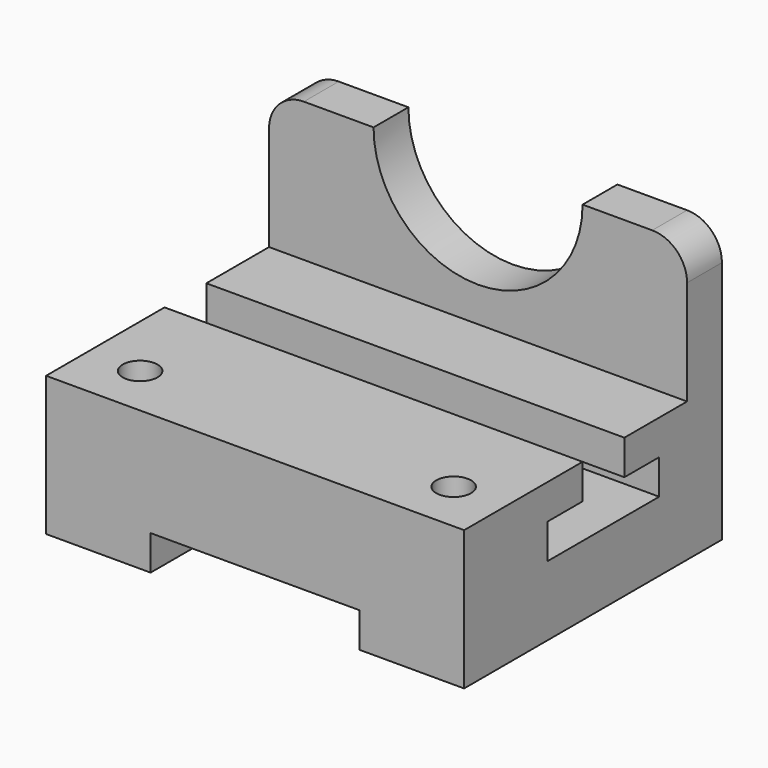
from build123d import *

# Parameters (mm, degrees)
F1_DEPTH = 101.6
F2_W     = 19.05
F2_H     = 12.7
F3_DEPTH = 152.4
F4_R     = 6.35
F5_DEPTH = 50.8
F6_W     = 152.4
F6_H     = 15.875
F7_DEPTH = 50.8
F9_DEPTH = 15.875
F10_R    = 12.7


with BuildPart() as f1:
    # F0 (on Front) → F1 (new body)
    with BuildSketch(Plane.XZ):
        Polygon((76.2, 25.4), (-76.2, 25.4), (-76.2, -25.4), (-38.1, -25.4), (-38.1, -12.7), (38.1, -12.7), (38.1, -25.4), (76.2, -25.4), align=None)
    extrude(amount=-F1_DEPTH)

    # F2 (on face) → F3 (cut)
    with BuildSketch(Plane.YZ.offset(76.2)):
        Polygon((53.975, 12.7), (38.1, 12.7), (38.1, 0), (88.9, 0), (88.9, 12.7), (73.025, 12.7), align=None)
        with Locations((63.5, 19.05)):
            Rectangle(F2_W, F2_H)
    extrude(amount=-F3_DEPTH, mode=Mode.SUBTRACT)

    # F4 (on face) → F5 (cut, through all)
    with BuildSketch(Plane.XY.offset(25.4)):
        with Locations((57.15, 19.05)):
            Circle(F4_R)
        with Locations((-57.15, 19.05)):
            Circle(F4_R)
    extrude(amount=-F5_DEPTH, mode=Mode.SUBTRACT)

    # F6 (on face) → F7 (join, symmetric)
    with BuildSketch(Plane.XY.offset(25.4)):
        with Locations((0, 109.5375)):
            Rectangle(F6_W, F6_H)
    extrude(amount=F7_DEPTH, both=True)

    # F8 (on face) → F9 (cut, through all)
    with BuildSketch(Plane.XZ.offset(-101.6)):
        with BuildLine():
            Line((38.1, 76.2), (-38.1, 76.2))
            ThreePointArc((-38.1, 76.2), (0, 38.1), (38.1, 76.2))
        make_face()
    extrude(amount=-F9_DEPTH, mode=Mode.SUBTRACT)

    # F10
    f10_edges = [f1.edges().sort_by_distance(p)[0] for p in [
        (-76.2, 109.5375, 76.2),
        (76.2, 109.5375, 76.2),
    ]]
    fillet(f10_edges, radius=F10_R)


solid = f1.part
